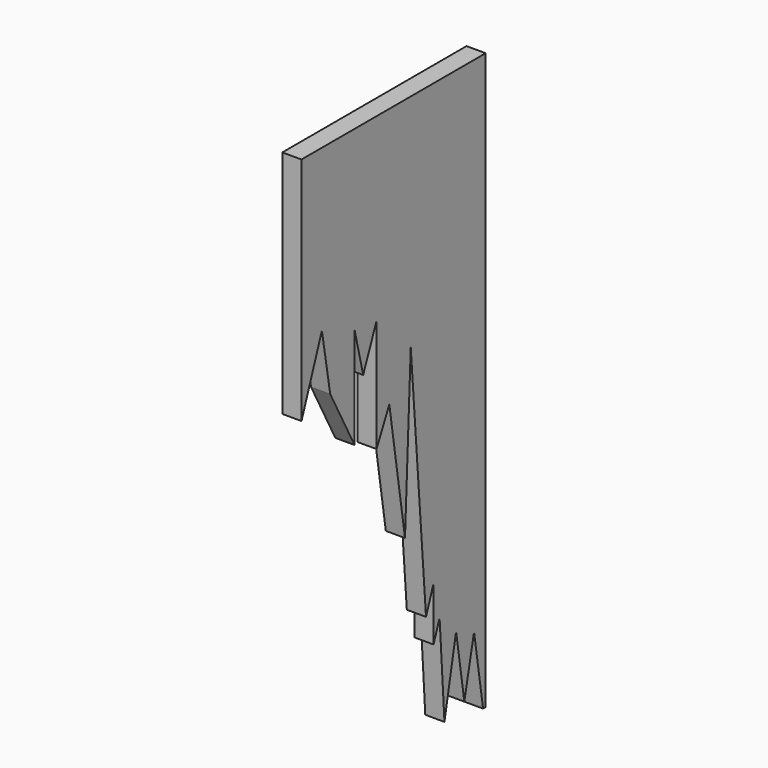
from build123d import *

# Parameters (mm, degrees)
F1_DEPTH = 12.7


with BuildPart() as f1:
    # F0 (on Right) → F1 (new body)
    with BuildSketch(Plane.YZ):
        Polygon((-81.148056, 152.4), (-81.148056, 0), (-64.264163, 45.804784), (-57.39085, 6.09312), (-37.22056, -31.817149), (-37.22056, 35.310104), (-30.08927, 6.09312), (-19.019617, 33.24692), (-19.019617, -41.578095), (-8.49505, -19.859882), (4.483057, -102.9488), (9.243387, 6.09312), (21.866368, -155.964419), (28.112774, -139.018371), (28.112774, -174.600467), (33.099876, -161.07082), (37.128638, -223.373905), (46.750363, -174.600467), (53.567908, -218.248002), (61.619878, -180.88825), (69.072234, -228.6), (71.251944, -228.6), (71.251944, 152.4), align=None)
    extrude(amount=F1_DEPTH)


solid = f1.part
